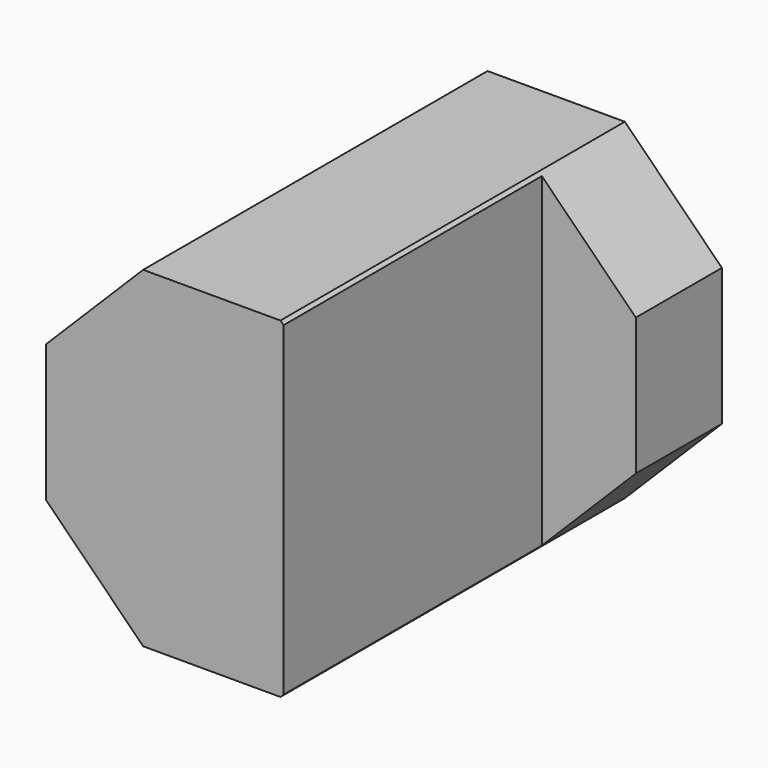
from build123d import *

# Parameters (mm, degrees)
BOX008_W         = 2
BOX008_H         = 4.5
BOX008_DEPTH     = 6
EXTRUDE004_DEPTH = 6


with BuildPart() as box008:
    # Box008 → Box008 (new body)
    with BuildSketch(Plane(origin=(1, 0, -0.5), x_dir=(1, 0, 0), z_dir=(0, 0, 1))):
        with Locations((1, 2.25)):
            Rectangle(BOX008_W, BOX008_H)
    extrude(amount=BOX008_DEPTH)


with BuildPart() as obj1:
    # Sketch002 → Extrude004 (new body)
    with BuildSketch(Plane.XZ):
        Polygon((2.309699, 1.35299), (2.309699, 3.266407), (0.956709, 4.619398), (-0.956709, 4.619398), (-2.309699, 3.266407), (-2.309699, 1.35299), (-0.956709, 0), (0.956709, 0), align=None)
    extrude(amount=-EXTRUDE004_DEPTH)

    # Cut: cut Box008
    add(box008.part, mode=Mode.SUBTRACT)


solid = obj1.part
